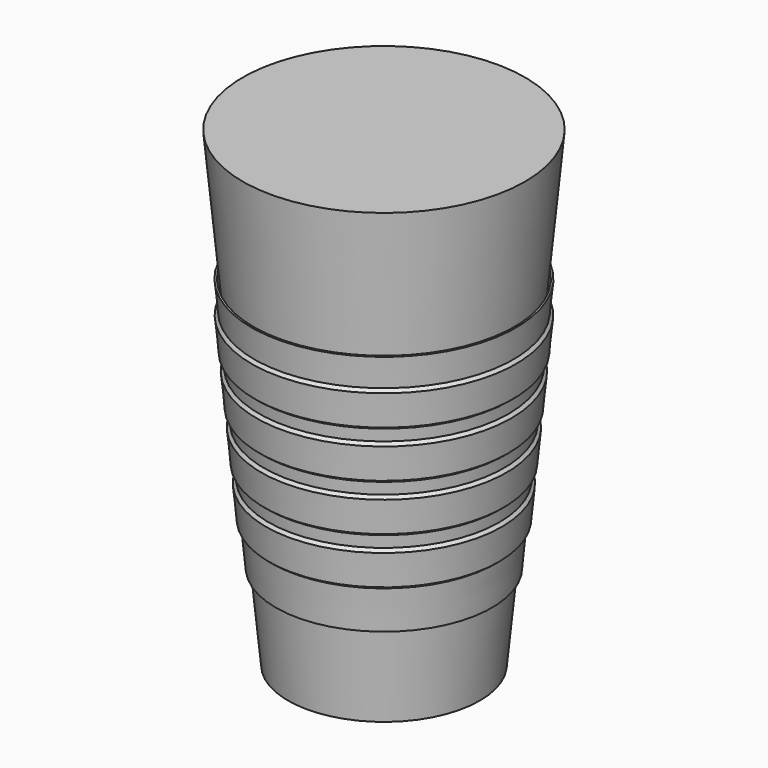
from build123d import *

# Parameters (mm, degrees)
F0_R = 30
F2_R = 44.15


with BuildPart() as f3:
    # F0 (on Top) → F3 section 0
    with BuildSketch(Plane.XY):
        Circle(F0_R)
    # F2 (on offset) → F3 section 1
    with BuildSketch(Plane.XY.offset(147.5)):
        Circle(F2_R)
    loft()


with BuildPart() as f5:
    # F4 (on Front) → F5 (revolve)
    with BuildSketch(Plane.XZ):
        Polygon((-39.414802, 85.631331), (-40.541629, 97.377406), (-41.351572, 96.395574), (-40.396634, 86.441274), align=None)
        Polygon((-33.17659, 26.858451), (-40.810623, 106.435819), (-41.410623, 106.435819), (-40.541629, 97.377406), (-39.414802, 85.631331), (-39.061475, 81.94824), (-37.934648, 70.202166), (-37.581321, 66.519075), (-36.454495, 54.773001), (-36.101168, 51.08991), (-34.974341, 39.343835), (-33.771119, 26.801417), align=None)
        Polygon((-37.934648, 70.202166), (-39.061475, 81.94824), (-39.871418, 80.966409), (-38.91648, 71.012109), align=None)
        Polygon((-35.956172, 40.153778), (-34.974341, 39.343835), (-36.101168, 51.08991), (-36.91111, 50.108078), align=None)
        Polygon((-37.436326, 55.582943), (-36.454495, 54.773001), (-37.581321, 66.519075), (-38.391264, 65.537244), align=None)
    revolve(axis=Axis((0, 0, 73.75), (0, 0, 1)))


solid = Compound([f3.part, f5.part])
